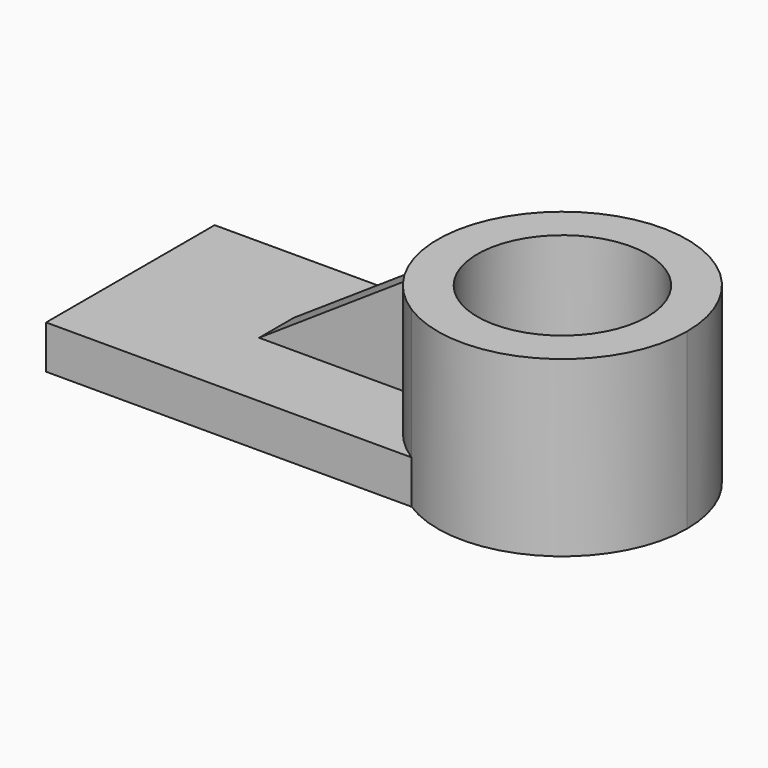
from build123d import *

# Parameters (mm, degrees)
F0_R     = 24.847219
F1_DEPTH = 50.8
F2_DEPTH = 12.7
F4_DEPTH = 6.35


with BuildPart() as f1:
    # F0 (on Top) → F1 (new body)
    with BuildSketch(Plane.XY):
        with BuildLine():
            ThreePointArc((99.638521, 0), (80.773834, 31.931442), (43.702941, 30.816859))
            ThreePointArc((43.702941, 30.816859), (26.724861, 0), (43.702941, -30.816859))
            ThreePointArc((43.702941, -30.816859), (80.773834, -31.931442), (99.638521, 0))
        make_face()
        with Locations((63.181691, 0)):
            Circle(F0_R, mode=Mode.SUBTRACT)
    extrude(amount=F1_DEPTH)

    # F0 (on Top) → F2 (join)
    with BuildSketch(Plane.XY):
        with BuildLine():
            Line((43.702941, 30.816859), (-63.181691, 30.816859))
            Line((-63.181691, 30.816859), (-63.181691, -30.816859))
            Line((-63.181691, -30.816859), (43.702941, -30.816859))
            ThreePointArc((43.702941, -30.816859), (26.724861, 0), (43.702941, 30.816859))
        make_face()
    extrude(amount=F2_DEPTH)

    # F3 (on Front) → F4 (join, symmetric)
    with BuildSketch(Plane.XZ):
        Polygon((30.64096, 11.108877), (30.64096, 46.754934), (-22.828124, 11.108877), align=None)
    extrude(amount=F4_DEPTH, both=True)


solid = f1.part
